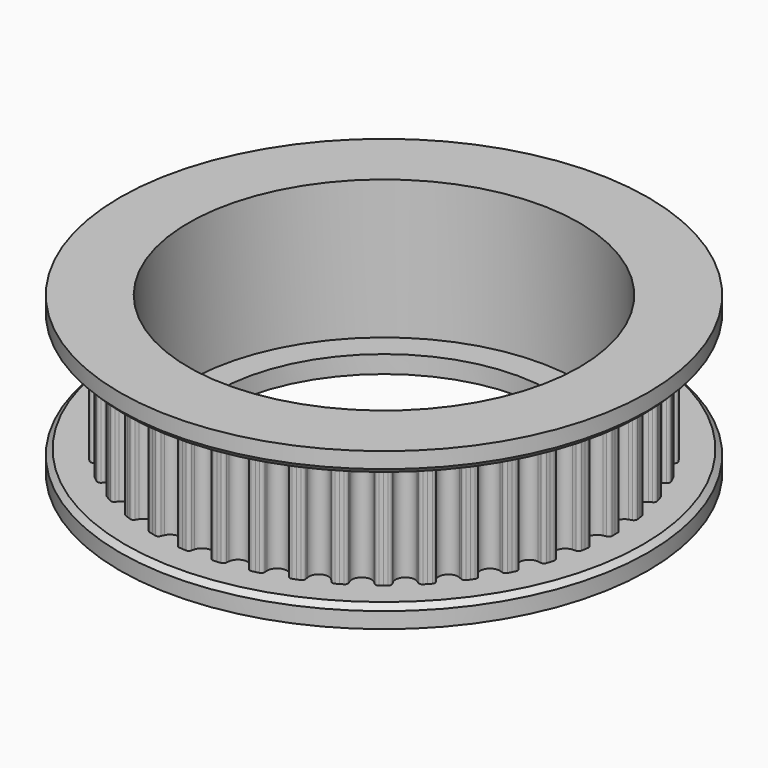
from build123d import *

# Parameters (mm, degrees)
F3_DEPTH = 3.25
F4_COUNT = 42
F7_R     = 11.1
F7_R_2   = 9.5
F8_DEPTH = 7.9
F9_DEPTH = 8.9
F10_SIZE = 0.3


with BuildPart() as f3:
    # F2 (on Top) → F3 (new body, symmetric)
    with BuildSketch(Plane.XY):
        with BuildLine():
            Line((0.9240387446, 12.3304401293), (0.9800863148, 13.0783429772))
            ThreePointArc((0.9800863148, 13.0783429772), (0.8765241987, 13.0856917869), (0.7729071526, 13.092220543))
            ThreePointArc((0.7729071526, 13.092220543), (0.6496883103, 13.0552941801), (0.5792622429, 12.9476530709))
            ThreePointArc((0.5792622429, 12.9476530709), (0.5582218713, 12.8609829902), (0.5356389319, 12.7747019902))
            ThreePointArc((0.5356389319, 12.7747019902), (0.3371766285, 12.4791786046), (0, 12.3650152197))
            ThreePointArc((0, 12.3650152197), (-0.3371766285, 12.4791786046), (-0.5356389319, 12.7747019902))
            ThreePointArc((-0.5356389319, 12.7747019902), (-0.5582218713, 12.8609829902), (-0.5792622429, 12.9476530709))
            ThreePointArc((-0.5792622429, 12.9476530709), (-0.6496883103, 13.0552941801), (-0.7729071526, 13.092220543))
            ThreePointArc((-0.7729071526, 13.092220543), (-0.8765241987, 13.0856917869), (-0.9800863148, 13.0783429772))
            Line((-0.9800863148, 13.0783429772), (-0.9240387446, 12.3304401293))
            Line((-0.9240387446, 12.3304401293), (0, 0))
            Line((0, 0), (0.9240387446, 12.3304401293))
        make_face()
        with BuildLine():
            Line((0.9240387446, 12.3304401293), (0.9800863148, 13.0783429772))
            ThreePointArc((0.9800863148, 13.0783429772), (0.8765241987, 13.0856917869), (0.7729071526, 13.092220543))
            ThreePointArc((0.7729071526, 13.092220543), (0.6496883103, 13.0552941801), (0.5792622429, 12.9476530709))
            ThreePointArc((0.5792622429, 12.9476530709), (0.5582218713, 12.8609829902), (0.5356389319, 12.7747019902))
            ThreePointArc((0.5356389319, 12.7747019902), (0.3371766285, 12.4791786046), (0, 12.3650152197))
            ThreePointArc((0, 12.3650152197), (-0.3371766285, 12.4791786046), (-0.5356389319, 12.7747019902))
            ThreePointArc((-0.5356389319, 12.7747019902), (-0.5582218713, 12.8609829902), (-0.5792622429, 12.9476530709))
            ThreePointArc((-0.5792622429, 12.9476530709), (-0.6496883103, 13.0552941801), (-0.7729071526, 13.092220543))
            ThreePointArc((-0.7729071526, 13.092220543), (-0.8765241987, 13.0856917869), (-0.9800863148, 13.0783429772))
            Line((-0.9800863148, 13.0783429772), (-0.9240387446, 12.3304401293))
            Line((-0.9240387446, 12.3304401293), (0, 0))
            Line((0, 0), (0.9240387446, 12.3304401293))
        make_face()
        with BuildLine():
            Line((0.9240387446, 12.3304401293), (0.9800863148, 13.0783429772))
            ThreePointArc((0.9800863148, 13.0783429772), (0.8765241987, 13.0856917869), (0.7729071526, 13.092220543))
            ThreePointArc((0.7729071526, 13.092220543), (0.6496883103, 13.0552941801), (0.5792622429, 12.9476530709))
            ThreePointArc((0.5792622429, 12.9476530709), (0.5582218713, 12.8609829902), (0.5356389319, 12.7747019902))
            ThreePointArc((0.5356389319, 12.7747019902), (0.3371766285, 12.4791786046), (0, 12.3650152197))
            ThreePointArc((0, 12.3650152197), (-0.3371766285, 12.4791786046), (-0.5356389319, 12.7747019902))
            ThreePointArc((-0.5356389319, 12.7747019902), (-0.5582218713, 12.8609829902), (-0.5792622429, 12.9476530709))
            ThreePointArc((-0.5792622429, 12.9476530709), (-0.6496883103, 13.0552941801), (-0.7729071526, 13.092220543))
            ThreePointArc((-0.7729071526, 13.092220543), (-0.8765241987, 13.0856917869), (-0.9800863148, 13.0783429772))
            Line((-0.9800863148, 13.0783429772), (-0.9240387446, 12.3304401293))
            Line((-0.9240387446, 12.3304401293), (0, 0))
            Line((0, 0), (0.9240387446, 12.3304401293))
        make_face()
    extrude(amount=F3_DEPTH, both=True)

    # F4: F3 ×42 about axis
    f4_axis = Axis((0, 0, 0), (0, 0, -1))


with BuildPart() as f3_1:
    add(f3.part)
    for i in range(1, F4_COUNT):
        add(f3.part.rotate(f4_axis, i * 360 / F4_COUNT))

    # F5 (on Front) → F6 (revolve)
    with BuildSketch(Plane.XZ):
        Polygon((13.1150152197, -3.25), (0, -3.25), (0, -4.45), (15, -4.45), (15, -3.25), align=None)
        Polygon((0, 4.45), (0, 3.25), (13.1150152197, 3.25), (15, 3.25), (15, 4.45), align=None)
    revolve(axis=Axis((0, 0, 0), (0, 0, -1)))

    # F7 (on face) → F8 (cut)
    with BuildSketch(Plane.XY.offset(4.45)):
        Circle(F7_R)
        Circle(F7_R_2, mode=Mode.SUBTRACT)
    extrude(amount=-F8_DEPTH, mode=Mode.SUBTRACT)

    # F9 (cut, through all): a face of the model
    f9_faces = [f3_1.faces().sort_by_distance(p)[0] for p in [
        (0, 0, 4.45),
    ]]
    extrude(f9_faces, amount=-F9_DEPTH, mode=Mode.SUBTRACT)

    # F10
    f10_edges = [f3_1.edges().sort_by_distance(p)[0] for p in [
        (-15, 0, -3.25),
        (-15, 0, 3.25),
    ]]
    chamfer(f10_edges, length=F10_SIZE)


solid = f3_1.part
